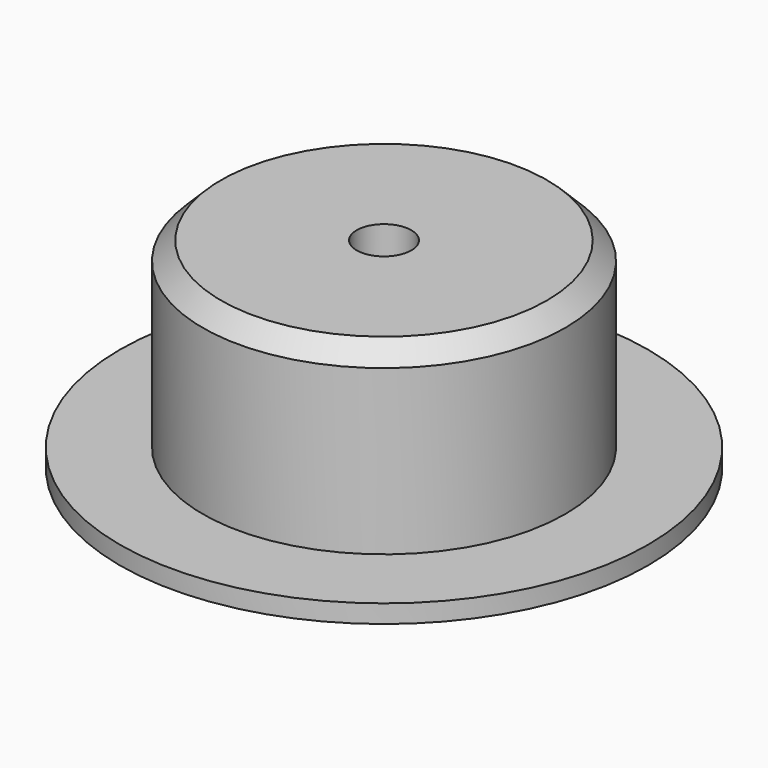
from build123d import *

# Parameters (mm, degrees)
SKETCH_R      = 9.95
SKETCH_R_2    = 1.5
PAD_DEPTH     = 10
CHAMFER_SIZE  = 1
SKETCH001_R   = 14.5
SKETCH001_R_2 = 1.5
PAD001_DEPTH  = 1


with BuildPart() as part:
    # Sketch → Pad (new body)
    with BuildSketch(Plane.XY):
        Circle(SKETCH_R)
        Circle(SKETCH_R_2, mode=Mode.SUBTRACT)
    extrude(amount=PAD_DEPTH)

    # Chamfer
    chamfer_edges = [part.edges().sort_by_distance(p)[0] for p in [
        (-9.95, 0, 10),
    ]]
    chamfer(chamfer_edges, length=CHAMFER_SIZE)

    # Sketch001 (on Face3 of Chamfer) → Pad001 (join)
    with BuildSketch(Plane(origin=(0, 0, 0), x_dir=(1, 0, 0), z_dir=(0, 0, -1))):
        Circle(SKETCH001_R)
        Circle(SKETCH001_R_2, mode=Mode.SUBTRACT)
    extrude(amount=PAD001_DEPTH)


solid = part.part
